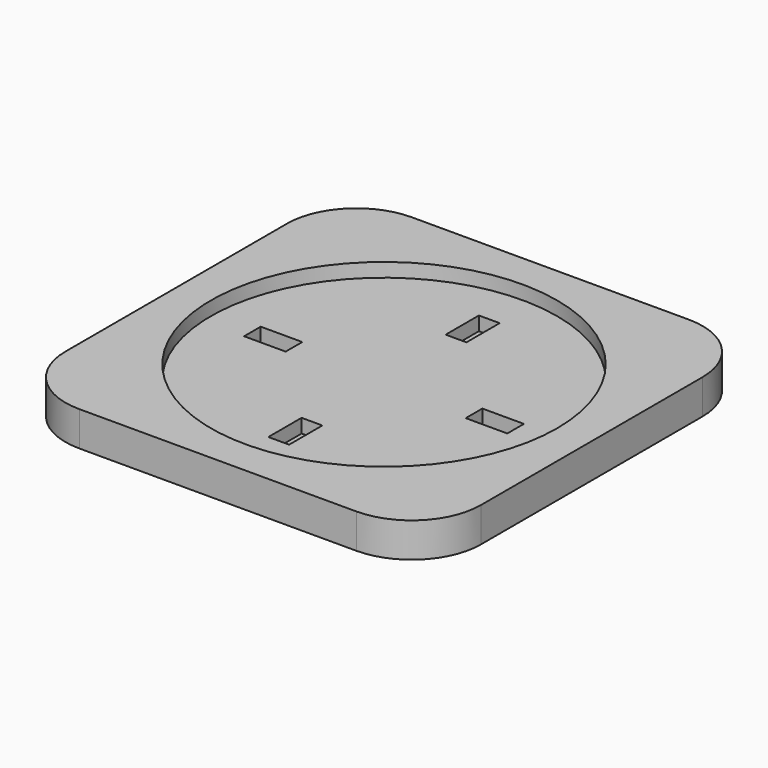
from build123d import *

# Parameters (mm, degrees)
F0_W     = 60
F0_H     = 60
F1_DEPTH = 5
F2_R     = 25
F3_DEPTH = 2
F4_R     = 10
F5_R     = 10
F6_W     = 6
F6_H     = 3
F6_W_2   = 3
F6_H_2   = 6
F7_DEPTH = 2


with BuildPart() as f1:
    # F0 (on Top) → F1 (new body)
    with BuildSketch(Plane.XY):
        Rectangle(F0_W, F0_H)
    extrude(amount=F1_DEPTH)

    # F2 (on face) → F3 (cut)
    with BuildSketch(Plane.XY.offset(5)):
        Circle(F2_R)
    extrude(amount=-F3_DEPTH, mode=Mode.SUBTRACT)

    # F4
    f4_edges = [f1.edges().sort_by_distance(p)[0] for p in [
        (-30, -30, 2.5),
    ]]
    fillet(f4_edges, radius=F4_R)

    # F5
    f5_edges = [f1.edges().sort_by_distance(p)[0] for p in [
        (30, -30, 2.5),
        (30, 30, 2.5),
        (-30, 30, 2.5),
    ]]
    fillet(f5_edges, radius=F5_R)

    # F6 (on face) → F7 (cut)
    with BuildSketch(Plane.XY.offset(3)):
        with Locations((-16, 0)):
            Rectangle(F6_W, F6_H)
        with Locations((0, 16)):
            Rectangle(F6_W_2, F6_H_2)
        with Locations((16, 0)):
            Rectangle(F6_W, F6_H)
        with Locations((0, -16)):
            Rectangle(F6_W_2, F6_H_2)
    extrude(amount=-F7_DEPTH, mode=Mode.SUBTRACT)


solid = f1.part
